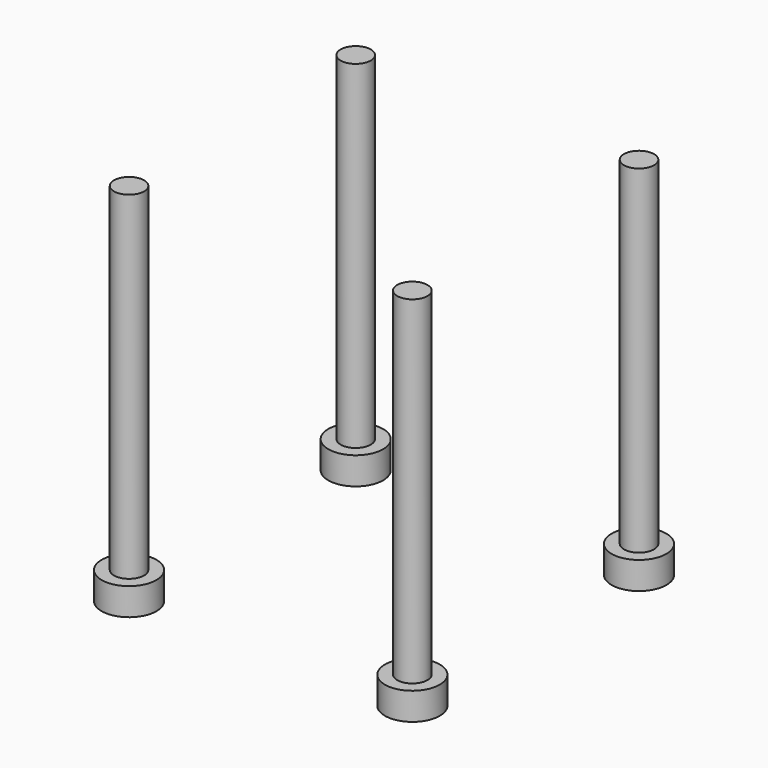
from build123d import *

# Parameters (mm, degrees)
CYLINDER067_R     = 3
CYLINDER067_DEPTH = 3
CYLINDER066_R     = 3
CYLINDER066_DEPTH = 3
CYLINDER065_R     = 3
CYLINDER065_DEPTH = 3
CYLINDER061_R     = 1.65
CYLINDER061_DEPTH = 40
CYLINDER062_R     = 1.65
CYLINDER062_DEPTH = 40
CYLINDER063_R     = 1.65
CYLINDER063_DEPTH = 40
CYLINDER064_R     = 1.65
CYLINDER064_DEPTH = 40
CYLINDER068_R     = 3
CYLINDER068_DEPTH = 3


with BuildPart() as cylinder067:
    # Cylinder067 → Cylinder067 (new body)
    with BuildSketch(Plane(origin=(22.5, -38, -5), x_dir=(1, 0, 0), z_dir=(0, 0, 1))):
        Circle(CYLINDER067_R)
    extrude(amount=CYLINDER067_DEPTH)


with BuildPart() as cylinder066:
    # Cylinder066 → Cylinder066 (new body)
    with BuildSketch(Plane(origin=(53.5, -7, -5), x_dir=(1, 0, 0), z_dir=(0, 0, 1))):
        Circle(CYLINDER066_R)
    extrude(amount=CYLINDER066_DEPTH)


with BuildPart() as cylinder065:
    # Cylinder065 → Cylinder065 (new body)
    with BuildSketch(Plane(origin=(22.5, -7, -5), x_dir=(1, 0, 0), z_dir=(0, 0, 1))):
        Circle(CYLINDER065_R)
    extrude(amount=CYLINDER065_DEPTH)


with BuildPart() as cylinder061:
    # Cylinder061 → Cylinder061 (new body)
    with BuildSketch(Plane(origin=(22.5, -7, -5), x_dir=(1, 0, 0), z_dir=(0, 0, 1))):
        Circle(CYLINDER061_R)
    extrude(amount=CYLINDER061_DEPTH)


with BuildPart() as cylinder062:
    # Cylinder062 → Cylinder062 (new body)
    with BuildSketch(Plane(origin=(53.5, -7, -5), x_dir=(1, 0, 0), z_dir=(0, 0, 1))):
        Circle(CYLINDER062_R)
    extrude(amount=CYLINDER062_DEPTH)


with BuildPart() as cylinder063:
    # Cylinder063 → Cylinder063 (new body)
    with BuildSketch(Plane(origin=(22.5, -38, -5), x_dir=(1, 0, 0), z_dir=(0, 0, 1))):
        Circle(CYLINDER063_R)
    extrude(amount=CYLINDER063_DEPTH)


with BuildPart() as cylinder064:
    # Cylinder064 → Cylinder064 (new body)
    with BuildSketch(Plane(origin=(53.5, -38, -5), x_dir=(1, 0, 0), z_dir=(0, 0, 1))):
        Circle(CYLINDER064_R)
    extrude(amount=CYLINDER064_DEPTH)


with BuildPart() as motor_bolt:
    # Cylinder068 → Cylinder068 (new body)
    with BuildSketch(Plane(origin=(53.5, -38, -5), x_dir=(1, 0, 0), z_dir=(0, 0, 1))):
        Circle(CYLINDER068_R)
    extrude(amount=CYLINDER068_DEPTH)

    # Fusion006002011004053036004001003009: union Cylinder067, Cylinder066, Cylinder065, Cylinder061, Cylinder062, Cylinder063, Cylinder064
    add(cylinder067.part)
    add(cylinder066.part)
    add(cylinder065.part)
    add(cylinder061.part)
    add(cylinder062.part)
    add(cylinder063.part)
    add(cylinder064.part)


solid = motor_bolt.part
